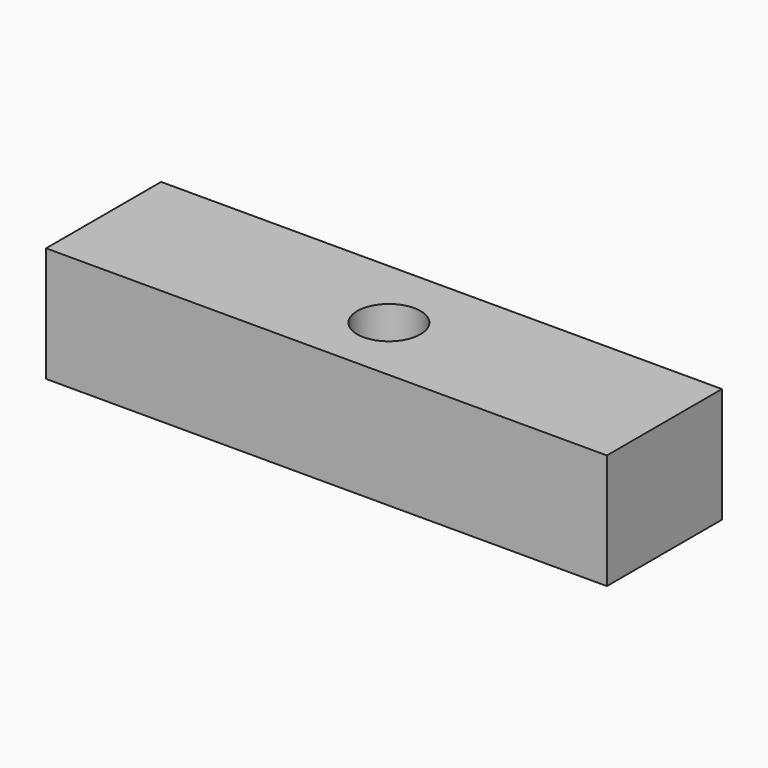
from build123d import *

# Parameters (mm, degrees)
CYLINDER219_R             = 2.2
CYLINDER219_DEPTH         = 50
FUSION092_PLACEMENT_ANGLE = 90
BOX085_W                  = 39
BOX085_H                  = 10
BOX085_DEPTH              = 8
CUT159_PLACEMENT_ANGLE    = 180


with BuildPart() as cylinder219:
    # Cylinder219 → Cylinder219 (new body)
    with BuildSketch(Plane(origin=(-24, 26, -8), x_dir=(0, 0, -1), z_dir=(1, 0, 0))):
        Circle(CYLINDER219_R)
    extrude(amount=CYLINDER219_DEPTH)


with BuildPart() as fusion092:
    # Cone020 → Cone020 (revolve)
    with BuildSketch(Plane(origin=(-24, 26, -8), x_dir=(0, 0, 1), z_dir=(0, -1, 0))):
        Polygon((0, 0), (2.2, 0), (4, 5), (0, 5), align=None)
    revolve(axis=Axis((-24, 26, -8), (-1, 0, 0)))

    # Fusion092: union Cylinder219
    add(cylinder219.part)


with BuildPart() as fusion092_1:
    # Fusion092 placement: moved
    add(fusion092.part.moved(Location((111.8, -1.7, 18.4))).rotate(Axis((111.8, -1.7, 18.4), (0, 1, 0)), FUSION092_PLACEMENT_ANGLE))


with BuildPart() as cut159:
    # Box085 → Box085 (new body)
    with BuildSketch(Plane(origin=(84.8, 19.5, 38.7), x_dir=(1, 0, 0), z_dir=(0, 0, 1))):
        with Locations((19.5, 5)):
            Rectangle(BOX085_W, BOX085_H)
    extrude(amount=BOX085_DEPTH)

    # Cut159: cut Fusion092
    add(fusion092_1.part, mode=Mode.SUBTRACT)


with BuildPart() as cut159_1:
    # Cut159 placement: moved
    add(cut159.part.moved(Location((208.5, -0.1, 64.5))).rotate(Axis((208.5, -0.1, 64.5), (0, 1, 0)), CUT159_PLACEMENT_ANGLE))


solid = cut159_1.part
